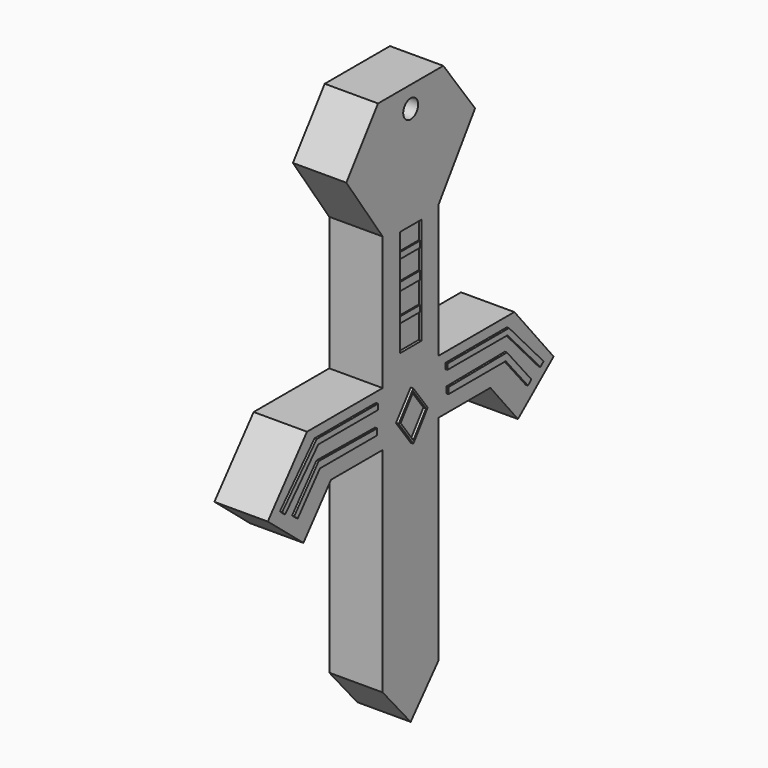
from build123d import *

# Parameters (mm, degrees)
F1_DEPTH  = 2
F2_R      = 0.35
F3_DEPTH  = 25
F4_W      = 1
F4_H      = 1.0295459899
F4_H_2    = 1.2896113173
F4_H_3    = 0.8533134981
F4_H_4    = 0.8275291947
F5_DEPTH  = 0.1
F6_W      = 1
F6_H      = 0.3036903766
F6_H_2    = 0.2311002463
F7_DEPTH  = 0.05
F9_DEPTH  = 0.1
F11_DEPTH = 0.4
F13_DEPTH = 0.15
F15_DEPTH = 0.08
F17_DEPTH = 0.08


with BuildPart() as f1:
    # F0 (on Right) → F1 (new body)
    with BuildSketch(Plane.YZ):
        Polygon((1.5289138055, 22.8420257282), (-1.5289138055, 22.8420257282), (-3.0169833821, 20.8331332634), (-1.3137839247, 18.3634953125), (-1.3137839247, 13.3634953125), (-4.8581478186, 13.3634953125), (-6.6966588007, 11.1467856193), (-5.026220344, 9.7613450914), (-3.7333500412, 11.3201707717), (-1.3137839247, 11.3201707717), (-1.3137839247, 3.3201707717), (0, 1.8122013425), (1.3137839247, 3.3201707717), (1.3137839247, 11.3201707717), (3.7333500412, 11.3201707717), (5.026220344, 9.7613450914), (6.6966588007, 11.1467856193), (4.8581478186, 13.3634953125), (1.3137839247, 13.3634953125), (1.3137839247, 18.3634953125), (3.0169833821, 20.8331332634), align=None)
    extrude(amount=F1_DEPTH)

    # F2 (on face) → F3 (cut)
    with BuildSketch(Plane.YZ.offset(2)):
        with Locations((0, 22.045429796)):
            Circle(F2_R)
    extrude(amount=-F3_DEPTH, mode=Mode.SUBTRACT)

    # F4 (on face) → F5 (cut)
    with BuildSketch(Plane.YZ.offset(2)):
        with Locations((0.0044090512, 17.6678796248)):
            Rectangle(F4_W, F4_H)
        with Locations((0.0044090512, 16.5083009712)):
            Rectangle(F4_W, F4_H_2)
        with Locations((0.0044090512, 15.4368385635)):
            Rectangle(F4_W, F4_H_3)
        with Locations((0.0044090512, 14.5964172171)):
            Rectangle(F4_W, F4_H_4)
    extrude(amount=-F5_DEPTH, mode=Mode.SUBTRACT)

    # F6 (on face) → F7 (join)
    with BuildSketch(Plane.YZ.offset(1.9)):
        with Locations((0.0044090512, 16.3344978081)):
            Rectangle(F6_W, F6_H)
        with Locations((0.0044090512, 15.2363022789)):
            Rectangle(F6_W, F6_H_2)
        with Locations((0.0044090512, 17.3582183197)):
            Rectangle(F6_W, F6_H_2)
    extrude(amount=F7_DEPTH)

    # F8 (on face) → F9 (join)
    with BuildSketch(Plane.YZ.offset(2)):
        Polygon((0.6717516341, 11.9438935243), (0, 12.8511385992), (-0.6890961678, 11.9545630374), (0, 11.023893021), align=None)
        Polygon((-0.5950663771, 11.94282338), (0, 12.7464999361), (0.5950663771, 11.94282338), (0, 11.1391468239), align=None, mode=Mode.SUBTRACT)
    extrude(amount=F9_DEPTH)

    # F10 (on face) → F11 (join)
    with BuildSketch(Plane.YZ.offset(2)):
        Polygon((4.5327297412, 12.9496529698), (1.7276167603, 12.9496529698), (1.7402404919, 12.7224316821), (4.4722869851, 12.7224316821), (5.6972301676, 11.2874979167), (5.8443970047, 11.4131281152), align=None)
    extrude(amount=-F11_DEPTH)

    # F12 (on face) → F13 (join)
    with BuildSketch(Plane.YZ.offset(2)):
        Polygon((4.5460160027, 13.0201727152), (1.7085982254, 13.0201727152), (1.7085982254, 12.9053406417), (4.4910646975, 12.9053406417), (5.7453825139, 11.386025697), (5.8344381178, 11.4595483271), align=None)
    extrude(amount=-F13_DEPTH)

    # F14 (on face) → F15 (join)
    with BuildSketch(Plane.YZ.offset(2)):
        Polygon((-4.4317739084, 12.7944620326), (-1.6240546247, 12.7944620326), (-1.6240546247, 13.0023704842), (-4.5060524717, 13.0023704842), (-6.1253183521, 11.2494025379), (-5.9816107865, 11.1166558107), align=None)
        Polygon((1.6240546247, 13.0023704842), (1.6240546247, 12.7944620326), (4.4317739084, 12.7944620326), (5.9816107865, 11.1166558107), (6.1253183521, 11.2494025379), (4.5060524717, 13.0023704842), align=None)
    extrude(amount=F15_DEPTH)

    # F16 (on face) → F17 (join)
    with BuildSketch(Plane.YZ.offset(2)):
        Polygon((-1.6705167945, 11.9723323733), (-1.6705167945, 12.2044812888), (-4.411512593, 12.2358226389), (-5.5567457362, 10.8810874), (-5.3931535222, 10.742793791), (-4.353756085, 11.9723323733), align=None)
        Polygon((4.411512593, 12.2358226389), (1.6705167945, 12.2044812888), (1.6705167945, 11.9723323733), (4.353756085, 11.9723323733), (5.3931535222, 10.742793791), (5.5567457362, 10.8810874), align=None)
    extrude(amount=F17_DEPTH)


solid = f1.part
